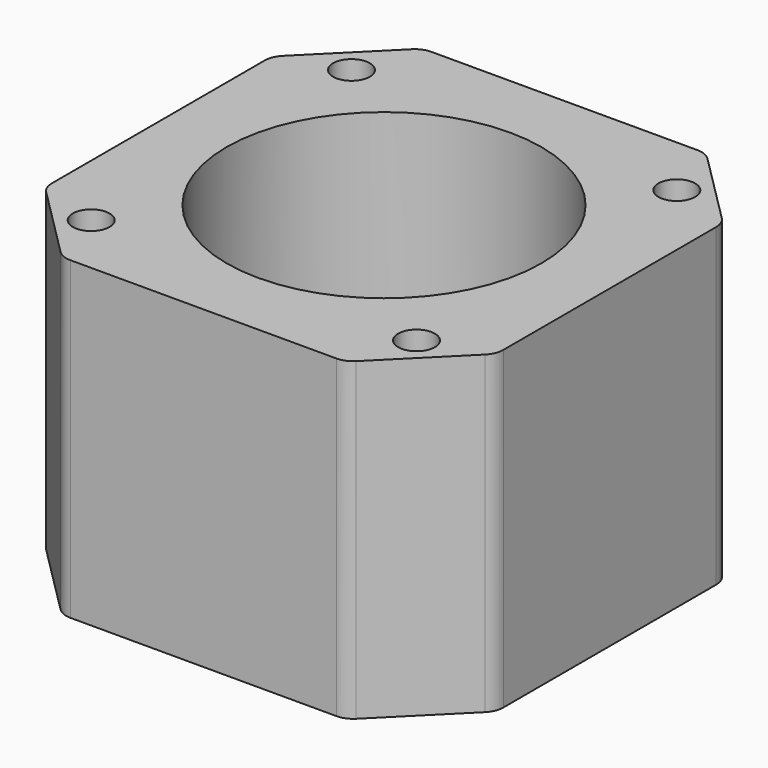
from build123d import *

# Parameters (mm, degrees)
F0_W     = 43
F0_H     = 43
F0_R     = 1.75
F0_R_2   = 15
F1_DEPTH = 30
F2_SIZE  = 8
F3_R     = 2


with BuildPart() as f1:
    # F0 (on Top) → F1 (new body)
    with BuildSketch(Plane.XY):
        Rectangle(F0_W, F0_H)
        with Locations((-15.5, -15.5)):
            Circle(F0_R, mode=Mode.SUBTRACT)
        with Locations((15.5, -15.5)):
            Circle(F0_R, mode=Mode.SUBTRACT)
        with Locations((-15.5, 15.5)):
            Circle(F0_R, mode=Mode.SUBTRACT)
        Circle(F0_R_2, mode=Mode.SUBTRACT)
        with Locations((15.5, 15.5)):
            Circle(F0_R, mode=Mode.SUBTRACT)
    extrude(amount=F1_DEPTH)

    # F2
    f2_edges = [f1.edges().sort_by_distance(p)[0] for p in [
        (-21.5, -21.5, 15),
        (21.5, -21.5, 15),
        (21.5, 21.5, 15),
        (-21.5, 21.5, 15),
    ]]
    chamfer(f2_edges, length=F2_SIZE)

    # F3
    f3_edges = [f1.edges().sort_by_distance(p)[0] for p in [
        (-13.5, 21.5, 15),
        (13.5, 21.5, 15),
        (21.5, 13.5, 15),
        (-21.5, 13.5, 15),
        (21.5, -13.5, 15),
        (13.5, -21.5, 15),
        (-13.5, -21.5, 15),
        (-21.5, -13.5, 15),
    ]]
    fillet(f3_edges, radius=F3_R)


solid = f1.part
